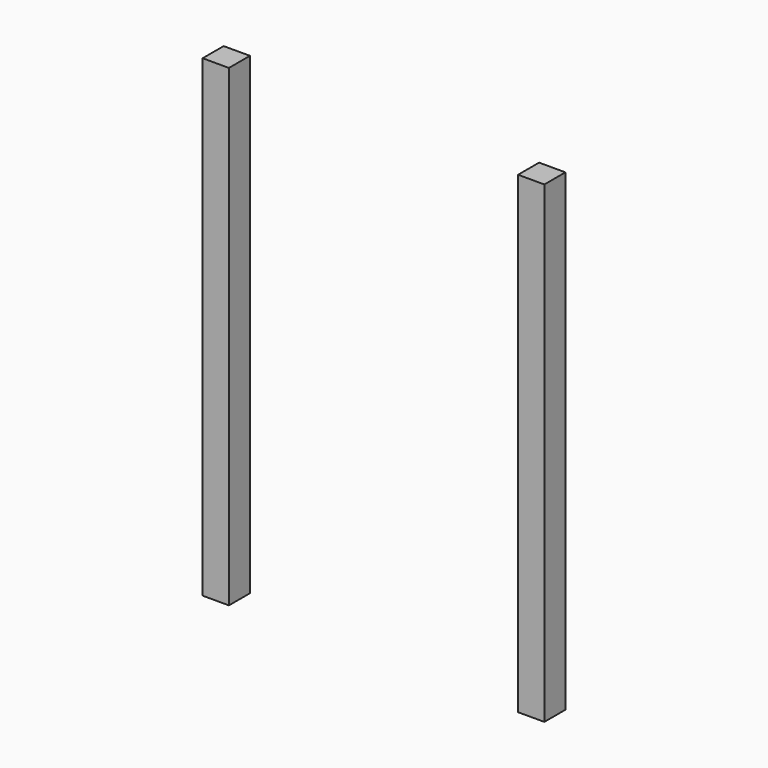
from build123d import *

# Parameters (mm, degrees)
F0_W     = 50.8
F0_H     = 50.8
F1_DEPTH = 457.2


with BuildPart() as f1:
    # F0 (on Top) → F1 (new body, symmetric)
    with BuildSketch(Plane.XY):
        with Locations((0, 25.4)):
            Rectangle(F0_W, F0_H)
        with Locations((-609.6, 25.4)):
            Rectangle(F0_W, F0_H)
    extrude(amount=F1_DEPTH, both=True)


solid = f1.part
